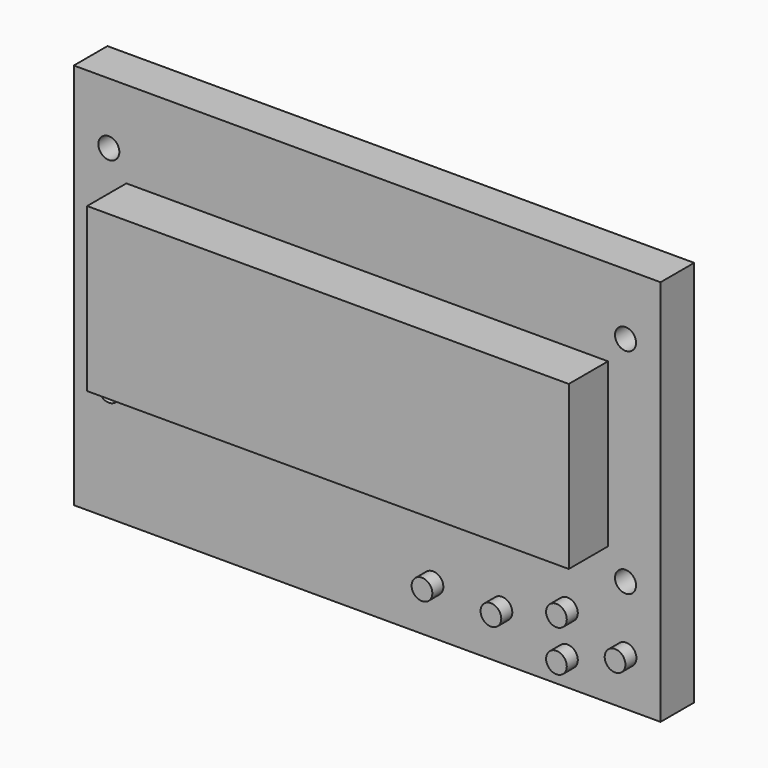
from build123d import *

# Parameters (mm, degrees)
F0_W     = 85.09
F0_H     = 56.134
F0_R     = 1.524
F1_DEPTH = 6.096
F2_W     = 69.85
F2_H     = 23.622
F3_DEPTH = 7.112
F4_R     = 1.5
F5_DEPTH = 2


with BuildPart() as f1:
    # F0 (on Front) → F1 (new body)
    with BuildSketch(Plane.XZ):
        Rectangle(F0_W, F0_H)
        with Locations((-37.465, -11.811)):
            Circle(F0_R, mode=Mode.SUBTRACT)
        with Locations((37.465, -11.811)):
            Circle(F0_R, mode=Mode.SUBTRACT)
        with Locations((-37.465, 19.177)):
            Circle(F0_R, mode=Mode.SUBTRACT)
        with Locations((37.465, 19.177)):
            Circle(F0_R, mode=Mode.SUBTRACT)
    extrude(amount=F1_DEPTH)

    # F2 (on face) → F3 (join)
    with BuildSketch(Plane.XZ.offset(6.096)):
        with Locations((0, 3.683)):
            Rectangle(F2_W, F2_H)
    extrude(amount=F3_DEPTH)

    # F4 (on face) → F5 (join)
    with BuildSketch(Plane.XZ.offset(6.096)):
        with Locations((9.545, -21.067)):
            Circle(F4_R)
        with Locations((19.545, -21.067)):
            Circle(F4_R)
        with Locations((29.045, -24.067)):
            Circle(F4_R)
        with Locations((29.045, -18.067)):
            Circle(F4_R)
        with Locations((37.545, -21.067)):
            Circle(F4_R)
    extrude(amount=F5_DEPTH)


solid = f1.part
